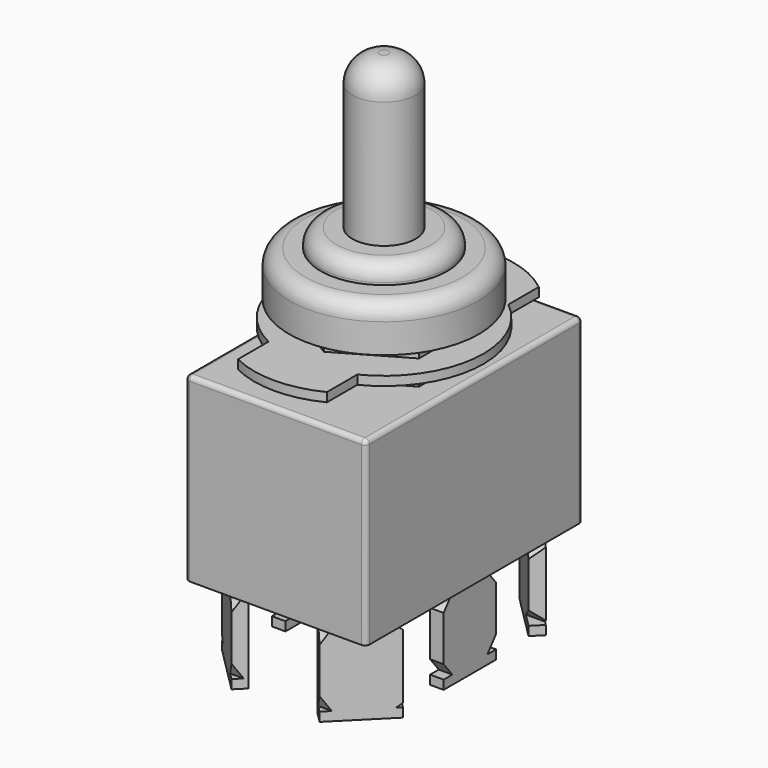
from build123d import *

# Parameters (mm, degrees)
SKETCH_W     = 20
SKETCH_H     = 30
PAD_DEPTH    = 20
PAD001_DEPTH = 1.75
PAD002_DEPTH = 1
PAD003_DEPTH = 1.75
SKETCH004_R  = 10.5
PAD004_DEPTH = 5
SKETCH005_R  = 7
PAD005_DEPTH = 2
SKETCH006_R  = 3.5
PAD006_DEPTH = 17
FILLET_R     = 3
FILLET001_R  = 0.5
FILLET002_R  = 1.75
SKETCH007_W  = 1.5
SKETCH007_H  = 7.25
PAD007_DEPTH = 9
POCKET_DEPTH = 21.001
PAD008_DEPTH = 1


with BuildPart() as part:
    # Sketch → Pad (new body)
    with BuildSketch(Plane.XY):
        Rectangle(SKETCH_W, SKETCH_H)
    extrude(amount=PAD_DEPTH)

    # Sketch001 (on Face6 of Pad) → Pad001 (join)
    with BuildSketch(Plane.XY.offset(20)):
        Polygon((0, -8.313844), (7.2, -4.156922), (7.2, 4.156922), (0, 8.313844), (-7.2, 4.156922), (-7.2, -4.156922), align=None)
    extrude(amount=PAD001_DEPTH)

    # Sketch002 (on Face13 of Pad001) → Pad002 (join)
    with BuildSketch(Plane.XY.offset(21.75)):
        with BuildLine():
            ThreePointArc((6.924821, 12.746745), (0, 15.2), (-6.924821, 12.746745))
            Line((-6.924821, 8.546745), (-6.924821, 12.746745))
            ThreePointArc((-6.924821, 8.546745), (-10.934933, -1.194675), (-4.915971, -9.840388))
            Line((-4.915971, -9.840388), (-4.915971, -14.040388))
            ThreePointArc((-4.915971, -14.040388), (0, -15.2), (4.915971, -14.040388))
            Line((4.915971, -14.040388), (4.915971, -9.840388))
            ThreePointArc((4.915971, -9.840388), (10.934933, -1.194675), (6.924821, 8.546745))
            Line((6.924821, 12.746745), (6.924821, 8.546745))
        make_face()
    extrude(amount=PAD002_DEPTH)

    # Sketch003 (on Face22 of Pad002) → Pad003 (join)
    with BuildSketch(Plane.XY.offset(22.75)):
        Polygon((7.2, 4.156922), (0, 8.313844), (-7.2, 4.156922), (-7.2, -4.156922), (0, -8.313844), (7.2, -4.156922), align=None)
    extrude(amount=PAD003_DEPTH)

    # Sketch004 (on Face29 of Pad003) → Pad004 (join)
    with BuildSketch(Plane.XY.offset(24.5)):
        Circle(SKETCH004_R)
    extrude(amount=PAD004_DEPTH)

    # Sketch005 (on Face31 of Pad004) → Pad005 (join)
    with BuildSketch(Plane.XY.offset(29.5)):
        Circle(SKETCH005_R)
    extrude(amount=PAD005_DEPTH)

    # Sketch006 (on Face33 of Pad005) → Pad006 (join)
    with BuildSketch(Plane.XY.offset(31.5)):
        Circle(SKETCH006_R)
    extrude(amount=PAD006_DEPTH)

    # Fillet
    fillet_edges = [part.edges().sort_by_distance(p)[0] for p in [
        (-3.5, 0, 48.5),
    ]]
    fillet(fillet_edges, radius=FILLET_R)

    # Fillet001
    fillet001_edges = [part.edges().sort_by_distance(p)[0] for p in [
        (10, 15, 10),
        (10, -15, 10),
        (-10, -15, 10),
        (-10, 15, 10),
        (-10, 0, 20),
        (0, -15, 20),
        (10, 0, 20),
        (0, 15, 20),
    ]]
    fillet(fillet001_edges, radius=FILLET001_R)

    # Fillet002
    fillet002_edges = [part.edges().sort_by_distance(p)[0] for p in [
        (-10.5, 0, 29.5),
        (-7, 0, 31.5),
    ]]
    fillet(fillet002_edges, radius=FILLET002_R)

    # Sketch007 (on Face47 of Fillet002) → Pad007 (join)
    with BuildSketch(Plane(origin=(0, 0, 0), x_dir=(1, 0, 0), z_dir=(0, 0, -1))):
        Polygon((4.873476, 15), (10, 9.873476), (8.93934, 8.812816), (3.812816, 13.93934), align=None)
        with Locations((8.75, 0)):
            Rectangle(SKETCH007_W, SKETCH007_H)
        Polygon((-4.873476, 15), (-10, 9.873476), (-8.93934, 8.812816), (-3.812816, 13.93934), align=None)
        with Locations((-8.75, 0)):
            Rectangle(SKETCH007_W, SKETCH007_H)
        Polygon((4.873476, -15), (10, -9.873476), (8.93934, -8.812816), (3.812816, -13.93934), align=None)
        Polygon((-4.873476, -15), (-10, -9.873476), (-8.93934, -8.812816), (-3.812816, -13.93934), align=None)
    extrude(amount=PAD007_DEPTH)

    # Sketch008 (on Face39 of Pad007) → Pocket (cut, through all)
    with BuildSketch(Plane(origin=(-10, 0, 0), x_dir=(0, -1, 0), z_dir=(-1, 0, 0))):
        Polygon((-15, 0), (-15, -1.5), (-14.25, 0), align=None)
        Polygon((-8.812816, 0), (-8.812816, -1.5), (-10.312816, 0), align=None)
        Polygon((-15, -6.5), (-14.25, -8), (-15, -8), align=None)
        Polygon((-8.812816, -8), (-8.812816, -6.5), (-10.312816, -8), align=None)
        Polygon((15, 0), (15, -1.5), (14.25, 0), align=None)
        Polygon((8.812816, 0), (8.812816, -1.5), (10.312816, 0), align=None)
        Polygon((15, -6.5), (14.25, -8), (15, -8), align=None)
        Polygon((8.812816, -8), (8.812816, -6.5), (10.312816, -8), align=None)
        Polygon((-3.625, 0), (-3.625, -1.5), (-2.425, 0), align=None)
        Polygon((-3.625, -6.5), (-3.625, -8), (-2.425, -8), align=None)
        Polygon((3.625, 0), (3.625, -1.5), (2.425, 0), align=None)
        Polygon((3.625, -6.5), (3.625, -8), (2.425, -8), align=None)
    extrude(amount=-POCKET_DEPTH, mode=Mode.SUBTRACT)

    # Sketch009 (on Face50 of Pocket) → Pad008 (join)
    with BuildSketch(Plane(origin=(0, 0, 0), x_dir=(1, 0, 0), z_dir=(0, 0, -1))):
        with BuildLine():
            Line((-1, 12), (-1, 6))
            Line((-1, 6), (-6, 6))
            ThreePointArc((-6, 6), (-6.5, 5.5), (-6, 5))
            Line((-6, 5), (-1, 5))
            Line((-1, 5), (-1, -5))
            Line((-1, -5), (-6, -5))
            ThreePointArc((-6, -5), (-6.5, -5.5), (-6, -6))
            Line((-6, -6), (-1, -6))
            Line((-1, -6), (-1, -12))
            ThreePointArc((-1, -12), (-0.707107, -12.707107), (0, -13))
            ThreePointArc((0, -13), (0.707107, -12.707107), (1, -12))
            Line((1, -6), (1, -12))
            Line((6, -6), (1, -6))
            ThreePointArc((6, -6), (6.5, -5.5), (6, -5))
            Line((1, -5), (6, -5))
            Line((1, 5), (1, -5))
            Line((6, 5), (1, 5))
            ThreePointArc((6, 5), (6.5, 5.5), (6, 6))
            Line((1, 6), (6, 6))
            Line((1, 12), (1, 6))
            ThreePointArc((1, 12), (0.707107, 12.707107), (0, 13))
            ThreePointArc((0, 13), (-0.707107, 12.707107), (-1, 12))
        make_face()
    extrude(amount=PAD008_DEPTH)


solid = part.part
